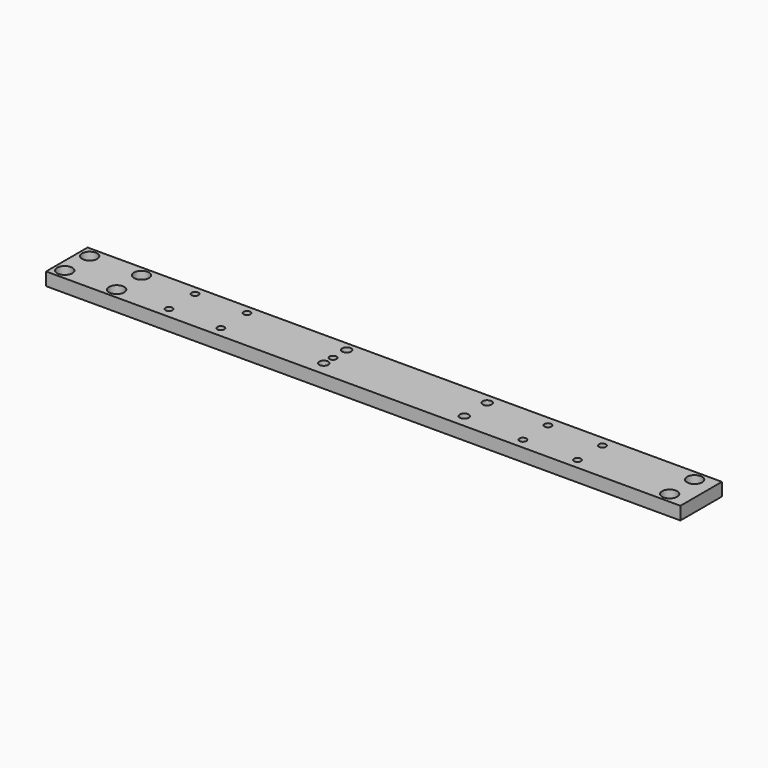
from build123d import *

# Parameters (mm, degrees)
F0_W     = 465.86
F0_H     = 38.1
F0_R     = 3.38
F0_R_2   = 2.555
F0_R_3   = 3.3
F1_DEPTH = 9.53
F2_R     = 5.555
F3_DEPTH = 6.35


with BuildPart() as f1:
    # F0 (on Top) → F1 (new body)
    with BuildSketch(Plane.XY):
        with Locations((-291.849708, -205.635505)):
            Rectangle(F0_W, F0_H)
        with Locations((-517.159708, -217.065505)):
            Circle(F0_R, mode=Mode.SUBTRACT)
        with Locations((-479.059708, -217.065505)):
            Circle(F0_R, mode=Mode.SUBTRACT)
        with Locations((-440.599708, -217.065505)):
            Circle(F0_R_2, mode=Mode.SUBTRACT)
        with Locations((-402.499708, -217.065505)):
            Circle(F0_R_2, mode=Mode.SUBTRACT)
        with Locations((-329.269708, -214.155505)):
            Circle(F0_R_3, mode=Mode.SUBTRACT)
        with Locations((-180.689708, -217.065505)):
            Circle(F0_R_2, mode=Mode.SUBTRACT)
        with Locations((-140.589708, -217.065505)):
            Circle(F0_R_2, mode=Mode.SUBTRACT)
        with Locations((-72.899708, -217.065505)):
            Circle(F0_R, mode=Mode.SUBTRACT)
        with Locations((-225.289708, -215.155505)):
            Circle(F0_R_3, mode=Mode.SUBTRACT)
        with Locations((-329.269708, -205.635505)):
            Circle(F0_R_2, mode=Mode.SUBTRACT)
        with Locations((-517.159708, -194.205505)):
            Circle(F0_R, mode=Mode.SUBTRACT)
        with Locations((-479.059708, -194.205505)):
            Circle(F0_R, mode=Mode.SUBTRACT)
        with Locations((-440.599708, -193.105505)):
            Circle(F0_R_2, mode=Mode.SUBTRACT)
        with Locations((-402.499708, -193.105505)):
            Circle(F0_R_2, mode=Mode.SUBTRACT)
        with Locations((-329.269708, -193.105505)):
            Circle(F0_R_3, mode=Mode.SUBTRACT)
        with Locations((-225.289708, -194.105505)):
            Circle(F0_R_3, mode=Mode.SUBTRACT)
        with Locations((-180.689708, -194.105505)):
            Circle(F0_R_2, mode=Mode.SUBTRACT)
        with Locations((-140.589708, -194.205505)):
            Circle(F0_R_2, mode=Mode.SUBTRACT)
        with Locations((-72.899708, -194.205505)):
            Circle(F0_R, mode=Mode.SUBTRACT)
    extrude(amount=F1_DEPTH)

    # F2 (on face) → F3 (cut)
    with BuildSketch(Plane.XY.offset(9.53)):
        with Locations((-517.159708, -194.205505)):
            Circle(F2_R)
        with Locations((-517.159708, -217.065505)):
            Circle(F2_R)
        with Locations((-479.059708, -194.205505)):
            Circle(F2_R)
        with Locations((-479.059708, -217.065505)):
            Circle(F2_R)
        with Locations((-72.899708, -194.205505)):
            Circle(F2_R)
        with Locations((-72.899708, -217.065505)):
            Circle(F2_R)
    extrude(amount=-F3_DEPTH, mode=Mode.SUBTRACT)


solid = f1.part
